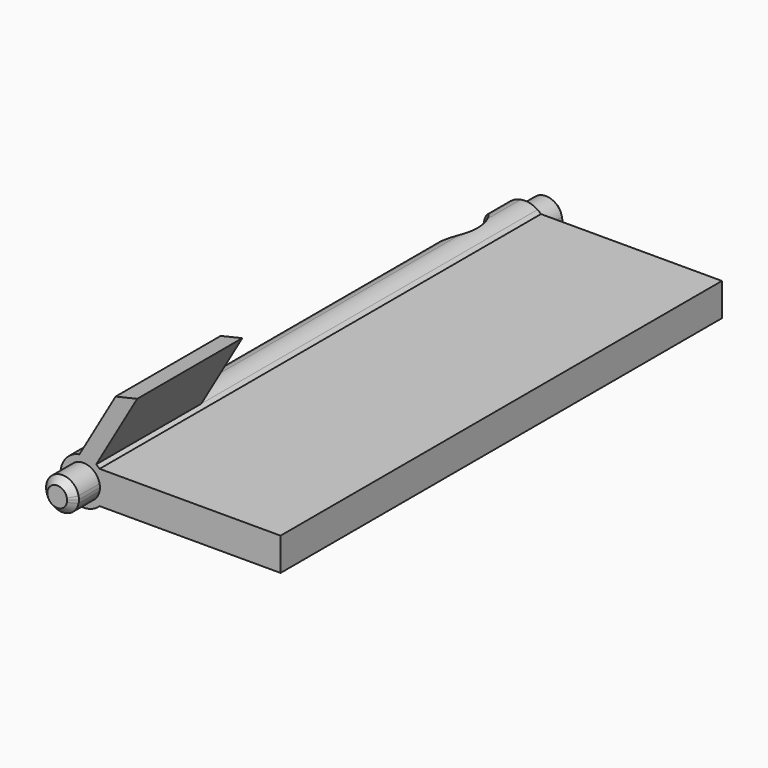
from build123d import *

# Parameters (mm, degrees)
F1_DEPTH      = 2.5
F2_SIZE       = 0.5
F3_DEPTH      = 42
F4_DEPTH      = 44.5
F5_SIZE       = 0.5
F7_DEPTH      = 10
F6_R          = 3
F8_DEPTH      = 10
F8_DEPTH_BACK = 10


with BuildPart() as f1:
    # F0 (on Front) → F1 (new body)
    with BuildSketch(Plane.XZ):
        with BuildLine():
            Line((1.2247448714, -0.25), (1.2247448714, 0.25))
            ThreePointArc((1.2247448714, 0.25), (-1.25, 0), (1.2247448714, -0.25))
        make_face()
        with BuildLine():
            ThreePointArc((1.25, 0), (1.2436701913, 0.1256362025), (1.2247448714, 0.25))
            Line((1.2247448714, 0.25), (1.2247448714, -0.25))
            ThreePointArc((1.2247448714, -0.25), (1.2436701913, -0.1256362025), (1.25, 0))
        make_face()
    extrude(amount=F1_DEPTH)

    # F2
    f2_edges = [f1.edges().sort_by_distance(p)[0] for p in [
        (-1.224745, -2.5, 0.25),
    ]]
    chamfer(f2_edges, length=F2_SIZE)

    # F0 (on Front) → F3 (join)
    with BuildSketch(Plane.XZ):
        with BuildLine():
            ThreePointArc((1.2247448714, 1.25), (1.6133510971, 0.6779367504), (1.75, 0))
            ThreePointArc((1.75, 0), (1.6133510971, -0.6779367504), (1.2247448714, -1.25))
            Line((1.2247448714, -1.25), (15, -1.25))
            Line((15, -1.25), (15, 1.25))
            Line((15, 1.25), (1.2247448714, 1.25))
        make_face()
        with BuildLine():
            Line((1.2247448714, 0.25), (1.2247448714, 1.25))
            ThreePointArc((1.2247448714, 1.25), (1.0990782163, 1.3618102197), (0.9632574662, 1.4610390323))
            ThreePointArc((0.9632574662, 1.4610390323), (0.3519402911, 1.7142456159), (-0.3096911027, 1.722379581))
            ThreePointArc((-0.3096911027, 1.722379581), (-1.5550212035, -0.8027509307), (1.2247448714, -1.25))
            Line((1.2247448714, -1.25), (1.2247448714, -0.25))
            ThreePointArc((1.2247448714, -0.25), (-1.25, 0), (1.2247448714, 0.25))
        make_face()
        with BuildLine():
            ThreePointArc((1.2247448714, -1.25), (1.6133510971, -0.6779367504), (1.75, 0))
            ThreePointArc((1.75, 0), (1.6133510971, 0.6779367504), (1.2247448714, 1.25))
            Line((1.2247448714, 1.25), (1.2247448714, 0.25))
            ThreePointArc((1.2247448714, 0.25), (1.2436701913, 0.1256362025), (1.25, 0))
            ThreePointArc((1.25, 0), (1.2436701913, -0.1256362025), (1.2247448714, -0.25))
            Line((1.2247448714, -0.25), (1.2247448714, -1.25))
        make_face()
    extrude(amount=-F3_DEPTH)

    # F0 (on Front) → F7 (join)
    with BuildSketch(Plane.XZ):
        with BuildLine():
            ThreePointArc((-0.3096911027, 1.722379581), (0.3519402911, 1.7142456159), (0.9632574662, 1.4610390323))
            Line((0.9632574662, 1.4610390323), (4.0880007002, 6.8732530742))
            Line((4.0880007002, 6.8732530742), (2.4424443742, 6.4892180562))
            Line((2.4424443742, 6.4892180562), (-0.3096911027, 1.722379581))
        make_face()
    extrude(amount=-F7_DEPTH)


with BuildPart() as f4:
    # F0 (on Front) → F4 (new body)
    with BuildSketch(Plane.XZ):
        with BuildLine():
            Line((1.2247448714, -0.25), (1.2247448714, 0.25))
            ThreePointArc((1.2247448714, 0.25), (-1.25, 0), (1.2247448714, -0.25))
        make_face()
        with BuildLine():
            ThreePointArc((1.25, 0), (1.2436701913, 0.1256362025), (1.2247448714, 0.25))
            Line((1.2247448714, 0.25), (1.2247448714, -0.25))
            ThreePointArc((1.2247448714, -0.25), (1.2436701913, -0.1256362025), (1.25, 0))
        make_face()
    extrude(amount=-F4_DEPTH)

    # F5
    f5_edges = [f4.edges().sort_by_distance(p)[0] for p in [
        (-1.224745, 44.5, 0.25),
    ]]
    chamfer(f5_edges, length=F5_SIZE)


with BuildPart() as f8_tool:
    # F6 (on face) → F8 (new body, two sides)
    with BuildSketch(Plane.XY.offset(1.25)) as f8_sk:
        with Locations((-3, 37.5)):
            Circle(F6_R)
        with Locations((-3, 5)):
            Circle(F6_R)
    extrude(amount=-F8_DEPTH)
    extrude(f8_sk.sketch, amount=F8_DEPTH_BACK)


with BuildPart() as f1_1:
    add(f1.part)

    # F8: cut by f8_tool
    add(f8_tool.part, mode=Mode.SUBTRACT)

    # F9: F1, F4 across face


with BuildPart() as f4_1:
    add(f4.part)

    # F8: cut by f8_tool
    add(f8_tool.part, mode=Mode.SUBTRACT)


with BuildPart() as f1_2:
    add(f1_1.part)
    add(f1_1.part.mirror(Plane(origin=(15, 21, 0), x_dir=(0, 1, 0), z_dir=(1, 0, 0))), mode=Mode.SUBTRACT)
    add(f4_1.part.mirror(Plane(origin=(15, 21, 0), x_dir=(0, 1, 0), z_dir=(1, 0, 0))), mode=Mode.SUBTRACT)


solid = Compound([f4_1.part, f1_2.part])
